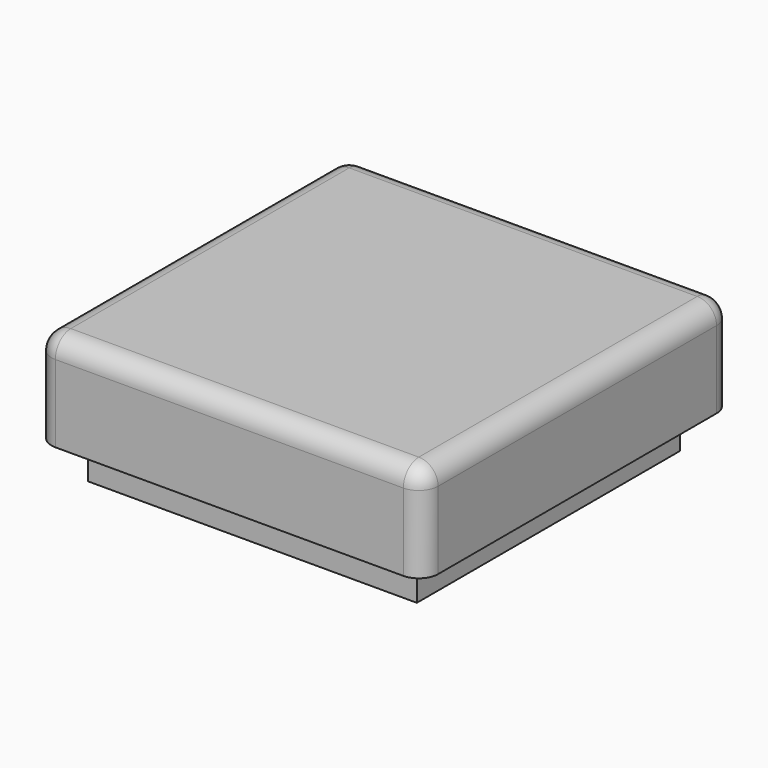
from build123d import *

# Parameters (mm, degrees)
F0_W     = 20
F0_H     = 20
F1_DEPTH = 5
F2_T     = -1
F3_R     = 1
F4_W     = 17
F4_H     = 17
F4_W_2   = 12
F4_H_2   = 2
F4_H_3   = 5
F5_DEPTH = 2


with BuildPart() as f1:
    # F0 (on Top) → F1 (new body)
    with BuildSketch(Plane.XY):
        Rectangle(F0_W, F0_H)
    extrude(amount=F1_DEPTH)

    # F2
    f2_openings = [f1.faces().sort_by_distance(p)[0] for p in [
        (0, 0, 0),
    ]]
    offset(amount=F2_T, openings=f2_openings)

    # F3
    f3_edges = [f1.edges().sort_by_distance(p)[0] for p in [
        (0, -10, 5),
        (10, 0, 5),
        (0, 10, 5),
        (-10, 0, 5),
        (-10, -10, 2.5),
        (10, -10, 2.5),
        (10, 10, 2.5),
        (-10, 10, 2.5),
    ]]
    fillet(f3_edges, radius=F3_R)


with BuildPart() as f5:
    # F4 (on Top) → F5 (new body)
    with BuildSketch(Plane.XY):
        Rectangle(F4_W, F4_H)
        with Locations((0, -5.5)):
            Rectangle(F4_W_2, F4_H_2, mode=Mode.SUBTRACT)
        Rectangle(F4_W_2, F4_H_3, mode=Mode.SUBTRACT)
        with Locations((0, 5.5)):
            Rectangle(F4_W_2, F4_H_2, mode=Mode.SUBTRACT)
    extrude(amount=-F5_DEPTH)


solid = Compound([f1.part, f5.part])
